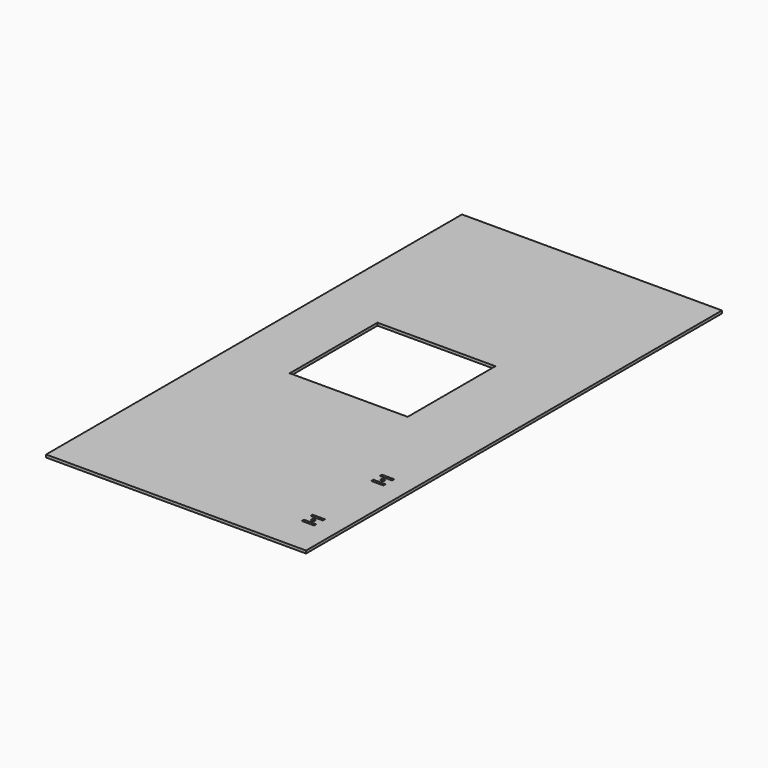
from build123d import *

# Parameters (mm, degrees)
F0_W     = 304.8
F0_H     = 609.6
F0_W_2   = 14.35001
F0_H_2   = 3.175
F0_R     = 2.15265
F0_W_3   = 138.296418
F0_H_3   = 128.581643
F1_DEPTH = 3.175


with BuildPart() as f1:
    # F0 (on Top) → F1 (new body)
    with BuildSketch(Plane.XY):
        with Locations((152.4, 304.8)):
            Rectangle(F0_W, F0_H)
        with Locations((272.388667, 44.933392)):
            Rectangle(F0_W_2, F0_H_2, mode=Mode.SUBTRACT)
        with Locations((272.388667, 51.283392)):
            Circle(F0_R, mode=Mode.SUBTRACT)
        with Locations((272.388667, 57.633392)):
            Rectangle(F0_W_2, F0_H_2, mode=Mode.SUBTRACT)
        with Locations((272.388667, 146.533392)):
            Rectangle(F0_W_2, F0_H_2, mode=Mode.SUBTRACT)
        with Locations((272.388667, 152.883392)):
            Circle(F0_R, mode=Mode.SUBTRACT)
        with Locations((272.388667, 159.233392)):
            Rectangle(F0_W_2, F0_H_2, mode=Mode.SUBTRACT)
        with Locations((142.739896, 329.417795)):
            Rectangle(F0_W_3, F0_H_3, mode=Mode.SUBTRACT)
    extrude(amount=F1_DEPTH)


solid = f1.part
